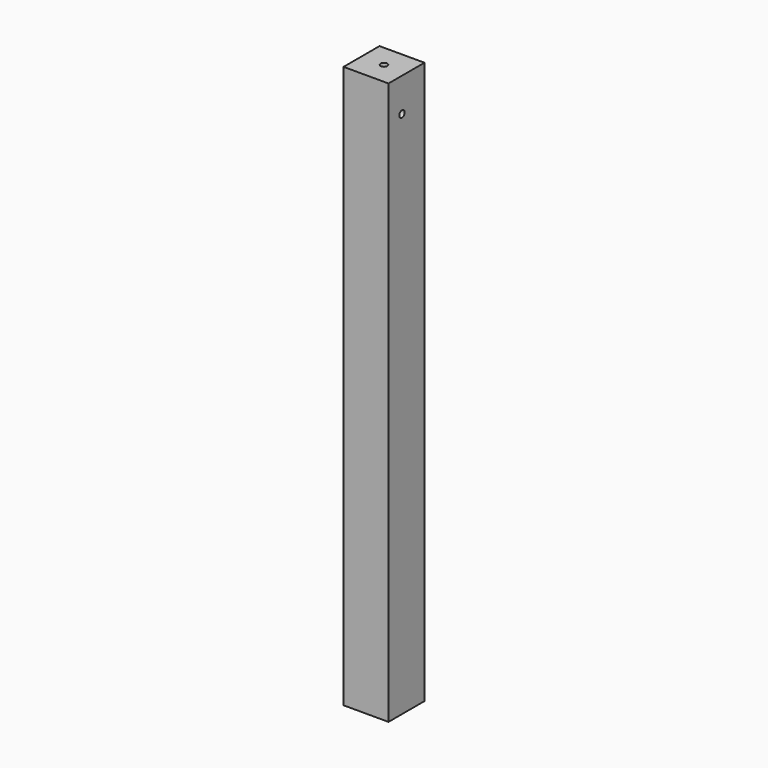
from build123d import *

# Parameters (mm, degrees)
F0_W     = 40
F0_H     = 40
F1_DEPTH = 500
F2_R     = 3
F3_DEPTH = 12
F4_R     = 3
F5_DEPTH = 12
F6_R     = 3
F7_DEPTH = 15


with BuildPart() as f1:
    # F0 (on Top) → F1 (new body)
    with BuildSketch(Plane.XY):
        with Locations((20, 20)):
            Rectangle(F0_W, F0_H)
    extrude(amount=F1_DEPTH)

    # F2 (on face) → F3 (cut)
    with BuildSketch(Plane.YZ.offset(40)):
        with Locations((15, 470)):
            Circle(F2_R)
    extrude(amount=-F3_DEPTH, mode=Mode.SUBTRACT)

    # F4 (on face) → F5 (cut)
    with BuildSketch(Plane(origin=(0, 40, 0), x_dir=(-1, 0, 0), z_dir=(0, 1, 0))):
        with Locations((-15, 470)):
            Circle(F4_R)
    extrude(amount=-F5_DEPTH, mode=Mode.SUBTRACT)

    # F6 (on face) → F7 (cut)
    with BuildSketch(Plane.XY.offset(500)):
        with Locations((20, 20)):
            Circle(F6_R)
    extrude(amount=-F7_DEPTH, mode=Mode.SUBTRACT)


solid = f1.part
